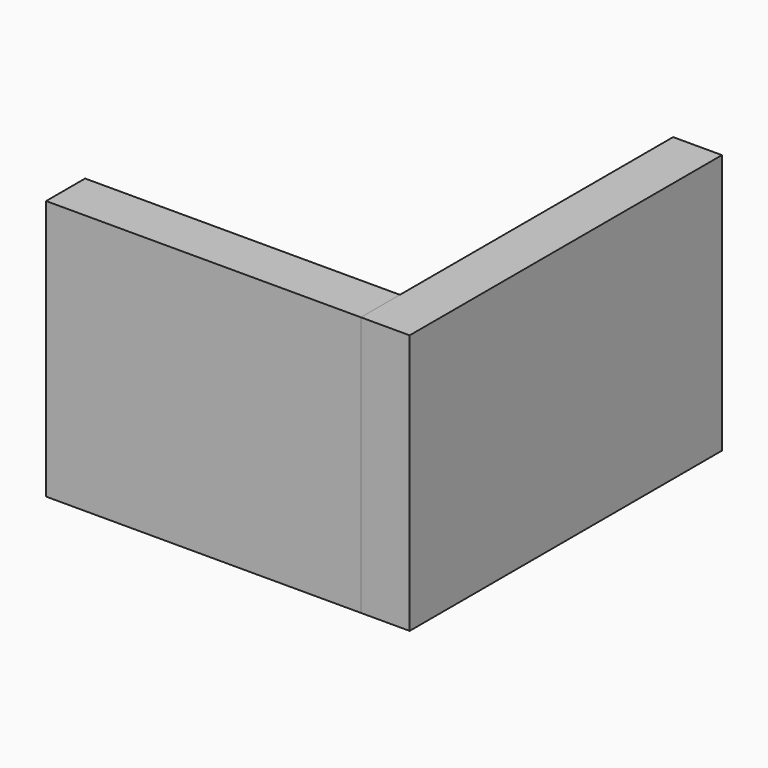
from build123d import *

# Parameters (mm, degrees)
F0_W     = 122.90867
F0_H     = 19.05
F1_DEPTH = 101.6
F2_DEPTH = 101.6


with BuildPart() as f1:
    # F0 (on Top) → F1 (new body)
    with BuildSketch(Plane.XY):
        with Locations((-61.454335, 9.525)):
            Rectangle(F0_W, F0_H)
    extrude(amount=F1_DEPTH)


with BuildPart() as f2:
    # F0 (on Top) → F2 (new body)
    with BuildSketch(Plane.XY):
        Polygon((0, 19.05), (0, 0), (19.05, 0), (19.05, 152.4), (0, 152.4), align=None)
    extrude(amount=F2_DEPTH)


solid = Compound([f1.part, f2.part])
